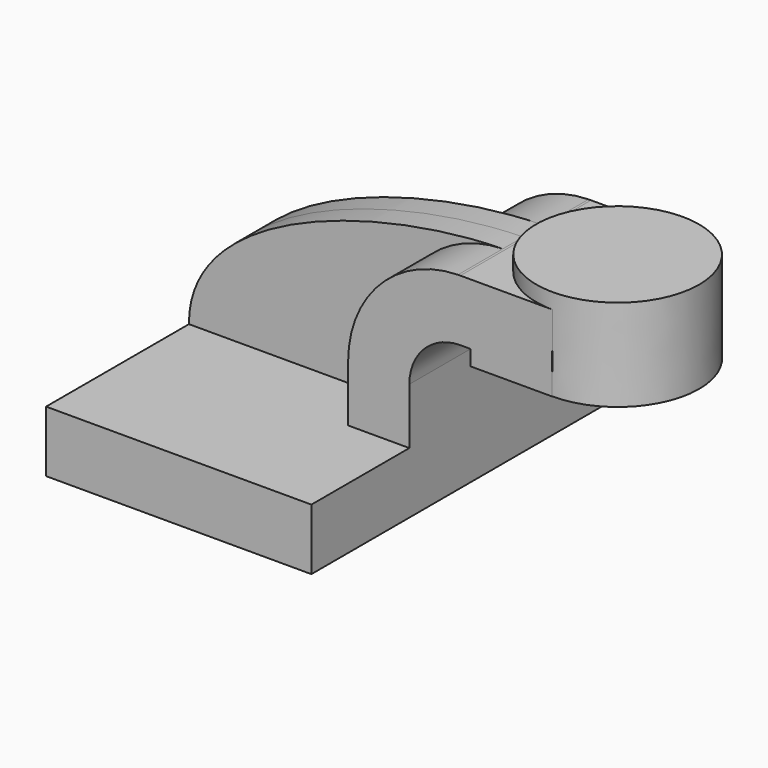
from build123d import *

# Parameters (mm, degrees)
F1_DEPTH = 63.5
F2_DEPTH = 25.4
F3_DEPTH = 25.4
F4_DEPTH = 7.9375


with BuildPart() as f1:
    # F0 (on Front) → F1 (new body, symmetric)
    with BuildSketch(Plane.XZ):
        Polygon((23.747439423, 9.525), (-39.752560577, 9.525), (-39.752560577, -9.525), (42.797439423, -9.525), (42.797439423, 9.525), align=None)
    extrude(amount=F1_DEPTH, both=True)

    # F0 (on Front) → F2 (join, symmetric)
    with BuildSketch(Plane.XZ):
        with BuildLine():
            Line((23.747439423, 27.0002), (23.747439423, 9.525))
            Line((23.747439423, 9.525), (42.797439423, 9.525))
            Line((42.797439423, 9.525), (42.797439423, 27.0002))
            ThreePointArc((42.797439423, 27.0002), (47.4471192717, 38.2255201513), (58.672439423, 42.8752))
            Line((58.672439423, 42.8752), (61.847439423, 42.8752))
            Line((61.847439423, 42.8752), (61.847439423, 61.9252))
            Line((61.847439423, 61.9252), (58.672439423, 61.9252))
            add(Edge.make_bspline(
                [(57.9305268727, 61.9173188784), (58.1788443539, 61.9206892677), (58.4261566277, 61.9233163085), (58.672439423, 61.9252)],
                knots=[110.7711022014, 110.7711022014, 110.7711022014, 110.7711022014, 111.5045361635, 111.5045361635, 111.5045361635, 111.5045361635], degree=3))
            ThreePointArc((57.9305268727, 61.9173188784), (33.7158078312, 51.4321905982), (23.747439423, 27.0002))
        make_face()
    extrude(amount=F2_DEPTH, both=True)

    # F0 (on Front) → F3 (join, symmetric)
    with BuildSketch(Plane.XZ):
        Polygon((87.2794313061, 61.9252), (61.847439423, 61.9252), (61.847439423, 42.8752), (61.847439423, 38.1), (87.247439423, 38.1), align=None)
    extrude(amount=F3_DEPTH, both=True)

    # F0 (on Front) → F4 (join, symmetric)
    with BuildSketch(Plane.XZ):
        with BuildLine():
            add(Edge.make_bspline(
                [(-39.752560577, 9.525), (-40.0057176122, 43.9432543149), (20.4269443953, 61.4082863569), (57.9305268727, 61.9173188784)],
                knots=[0, 0, 0, 0, 110.7711022014, 110.7711022014, 110.7711022014, 110.7711022014], degree=3))
            Line((-39.752560577, 9.525), (23.747439423, 9.525))
            Line((23.747439423, 9.525), (23.747439423, 27.0002))
            ThreePointArc((23.747439423, 27.0002), (33.7158078312, 51.4321905982), (57.9305268727, 61.9173188784))
        make_face()
    extrude(amount=F4_DEPTH, both=True)

    # F0 (on Front) → F5 (revolve)
    with BuildSketch(Plane.XZ):
        Polygon((87.2858092189, 66.675), (87.2794313061, 61.9252), (87.247439423, 38.1), (112.647439423, 38.1), (112.647439423, 66.675), align=None)
    revolve(axis=Axis((87.2666243209, 0, 52.3875), (0.0013427738, 0, 0.9999990985)))


solid = f1.part
